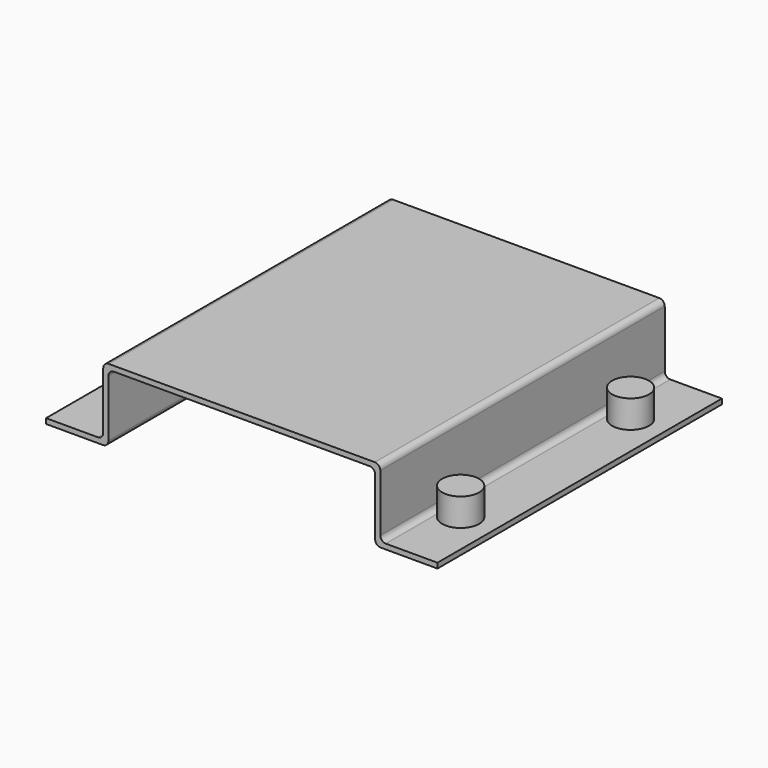
from build123d import *

# Parameters (mm, degrees)
F1_DEPTH = 77
F2_R     = 1.2
F3_R     = 4
F4_DEPTH = 6


with BuildPart() as f1:
    # F0 (on Front) → F1 (new body)
    with BuildSketch(Plane.XZ):
        Polygon((-42.38, 1.12), (-42.38, 0), (-28.88, 0), (-28.88, 14.755), (28.88, 14.755), (28.88, 0), (42.38, 0), (42.38, 1.12), (30, 1.12), (30, 15.875), (-30, 15.875), (-30, 1.12), align=None)
    extrude(amount=F1_DEPTH)

    # F2
    f2_edges = [f1.edges().sort_by_distance(p)[0] for p in [
        (-30, -38.5, 15.875),
        (30, -38.5, 15.875),
        (28.88, -38.5, 0),
        (-28.88, -38.5, 0),
        (28.88, -38.5, 14.755),
        (-28.88, -38.5, 14.755),
        (-30, -38.5, 1.12),
        (30, -38.5, 1.12),
    ]]
    fillet(f2_edges, radius=F2_R)

    # F3 (on face) → F4 (join)
    with BuildSketch(Plane.XY.offset(1.12)):
        with Locations((35, -15.5)):
            Circle(F3_R)
        with Locations((35, -61.5)):
            Circle(F3_R)
        with Locations((-35, -15.5)):
            Circle(F3_R)
        with Locations((-35, -61.5)):
            Circle(F3_R)
    extrude(amount=F4_DEPTH)


solid = f1.part
